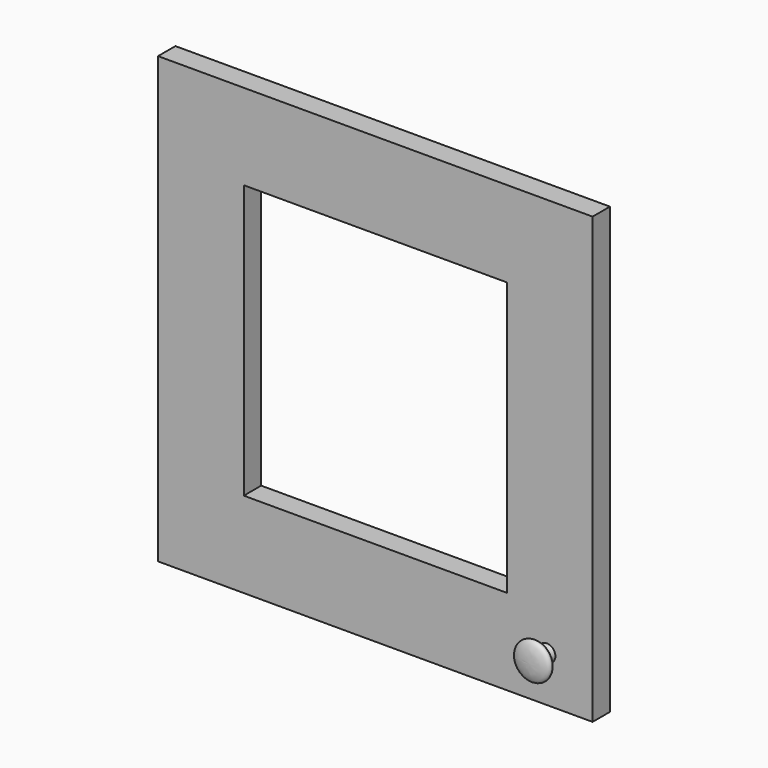
from build123d import *

# Parameters (mm, degrees)
CLONE2D012_W    = 380
CLONE2D012_H    = 389
PAD014_DEPTH    = 19
SKETCH035_W     = 230
SKETCH035_H     = 239
POCKET014_DEPTH = 19.001


with BuildPart() as part:
    # Clone2D012 → Pad014 (new body)
    with BuildSketch(Plane.XZ):
        with Locations((190, 194.5)):
            Rectangle(CLONE2D012_W, CLONE2D012_H)
    extrude(amount=PAD014_DEPTH)

    # Sketch035 (on Face6 of Pad014) → Pocket014 (cut, through all)
    with BuildSketch(Plane.XZ.offset(19)):
        with Locations((190, 194.5)):
            Rectangle(SKETCH035_W, SKETCH035_H)
    extrude(amount=-POCKET014_DEPTH, mode=Mode.SUBTRACT)

    # Clone2D013 → Revolution007 (revolve)
    with BuildSketch(Plane(origin=(340, -19, 40), x_dir=(1, 0, 0), z_dir=(0, 0, 1))):
        with BuildLine():
            Line((0, 0), (0, -20))
            add(Edge.make_bspline(
                [(0, -20), (-18, -20), (-18, -9.133286), (-4.506424, -9.133286), (-7.5, 0)],
                knots=[0, 0, 0, 0, 0.5, 1, 1, 1, 1], degree=3, weights=[7, 6.116989, 5.810816, 6.060123, 5.999522]))
            Line((-7.5, 0), (0, 0))
        make_face()
    revolve(axis=Axis((340, -19, 40), (0, 1, 0)))


with BuildPart() as part_1:
    # Body017 placement: moved
    add(part.part.moved(Location((784.5, 0, 899))))


with BuildPart() as part_2:
    # Clone003 placement: moved
    add(part_1.part.moved(Location((-784.5, 0, -899))))


with BuildPart() as part_3:
    # Body018 placement: moved
    add(part_2.part.moved(Location((10, 0, 899))))


solid = part_3.part
